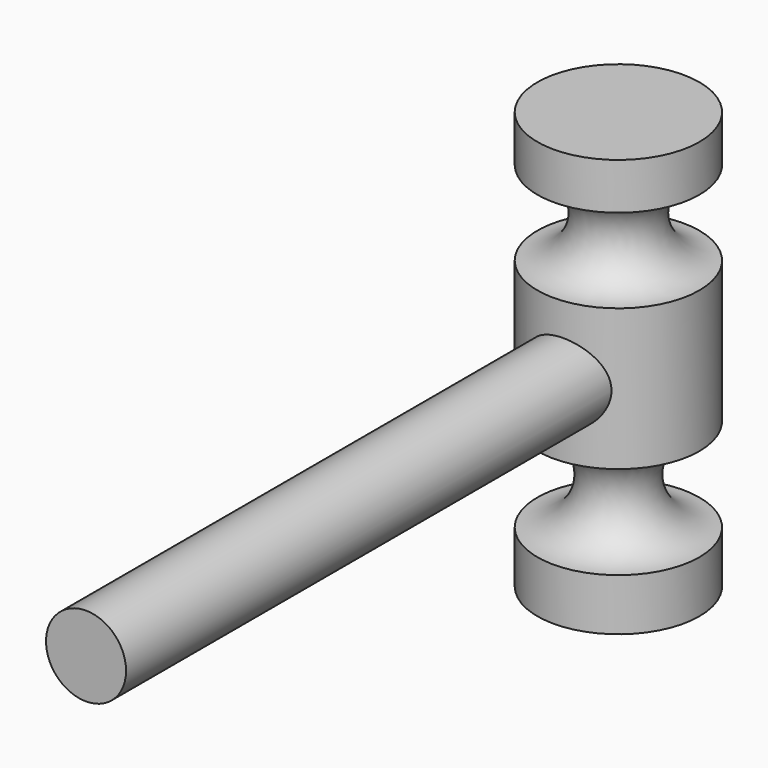
from build123d import *

# Parameters (mm, degrees)
F2_R     = 6.040382
F3_DEPTH = 101.6


with BuildPart() as f1:
    # F0 (on Front) → F1 (revolve)
    with BuildSketch(Plane.XZ):
        with BuildLine():
            Line((-12.221098, 0), (0, 0))
            Line((0, 0), (0, 7.852404))
            ThreePointArc((0, 7.852404), (-7.04206, 14.894464), (0, 21.936524))
            Line((0, 21.936524), (0, 43.29821))
            ThreePointArc((0, 43.29821), (-6.35, 49.64821), (0, 55.99821))
            Line((0, 55.99821), (0, 63.015036))
            Line((0, 63.015036), (-12.221098, 63.015036))
            Line((-12.221098, 63.015036), (-12.221098, 0))
        make_face()
    revolve(axis=Axis((-12.221098, 0, 31.507518), (0, 0, -1)))

    # F2 (on Front) → F3 (join)
    with BuildSketch(Plane.XZ):
        with Locations((-11.278991, 32.358523)):
            Circle(F2_R)
    extrude(amount=F3_DEPTH)


solid = f1.part
